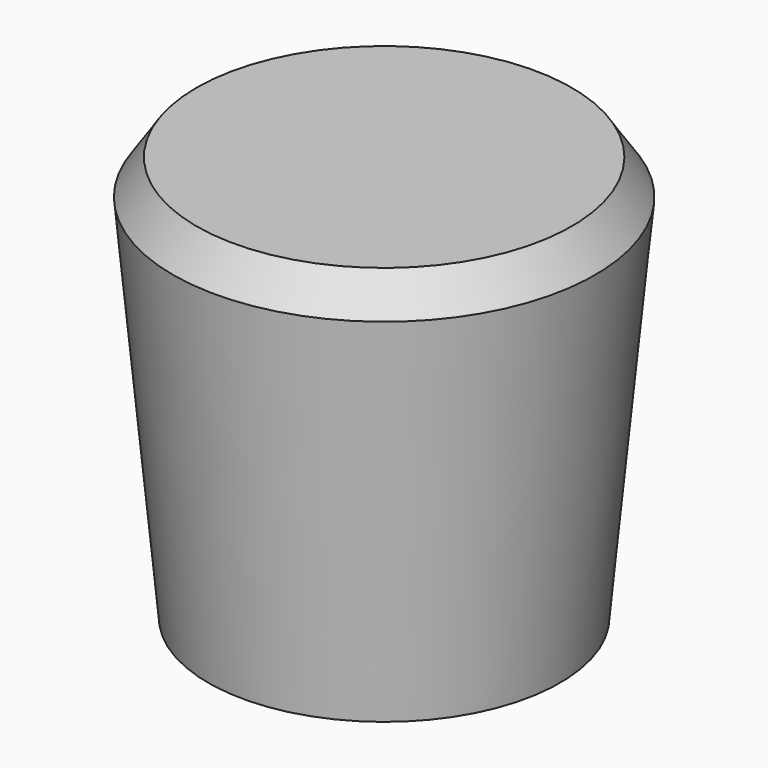
from build123d import *

# Parameters (mm, degrees)
F2_R     = 9.525
F3_DEPTH = 31.75


with BuildPart() as f1:
    # F0 (on Front) → F1 (revolve)
    with BuildSketch(Plane.XZ):
        Polygon((0, -7.780663), (0, 36.161337), (-20.32, 36.161337), (-22.86, 32.351337), (-19.05, -7.780663), align=None)
    revolve(axis=Axis((0, 0, 14.190337), (0, 0, 1)))

    # F2 (on face) → F3 (cut)
    with BuildSketch(Plane(origin=(0, 0, -7.780663), x_dir=(1, 0, 0), z_dir=(0, 0, -1))):
        Circle(F2_R)
    extrude(amount=-F3_DEPTH, mode=Mode.SUBTRACT)


solid = f1.part
